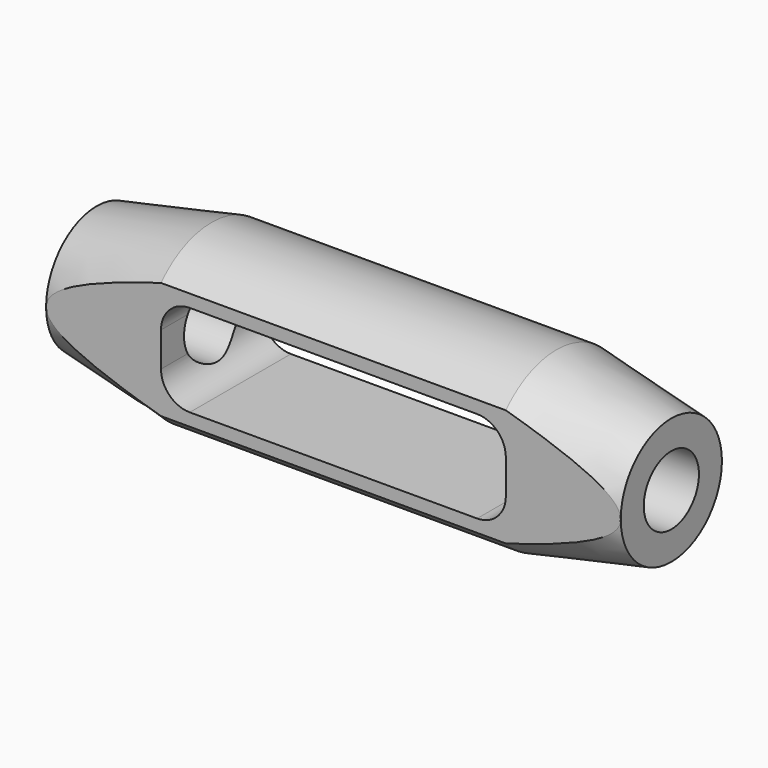
from build123d import *

# Parameters (mm, degrees)
SKETCH029_R      = 6
EXTRUDE026_DEPTH = 150
EXTRUDE025_DEPTH = 30
SKETCH027_W      = 15
SKETCH027_H      = 79.05159
SKETCH027_H_2    = 80
EXTRUDE024_DEPTH = 150


with BuildPart() as extrude026:
    # Sketch029 → Extrude026 (new body, symmetric)
    with BuildSketch(Plane.YZ):
        Circle(SKETCH029_R)
    extrude(amount=EXTRUDE026_DEPTH, both=True)


with BuildPart() as extrude025:
    # Sketch028 → Extrude025 (new body, symmetric)
    with BuildSketch(Plane.XZ):
        with BuildLine():
            Line((30, 3), (30, -3))
            ThreePointArc((25, -8), (28.535534, -6.535534), (30, -3))
            Line((25, -8), (-25, -8))
            ThreePointArc((-30, -3), (-28.535534, -6.535534), (-25, -8))
            Line((-30, -3), (-30, 3))
            ThreePointArc((-25, 8), (-28.535534, 6.535534), (-30, 3))
            Line((-25, 8), (25, 8))
            ThreePointArc((30, 3), (28.535534, 6.535534), (25, 8))
        make_face()
    extrude(amount=EXTRUDE025_DEPTH, both=True)


with BuildPart() as extrude024:
    # Sketch027 → Extrude024 (new body, symmetric)
    with BuildSketch(Plane.YZ):
        with Locations((-18.5, 0.159191)):
            Rectangle(SKETCH027_W, SKETCH027_H)
        with Locations((18.5, -0.315014)):
            Rectangle(SKETCH027_W, SKETCH027_H_2)
    extrude(amount=EXTRUDE024_DEPTH, both=True)


with BuildPart() as obj1:
    # Sketch026 → Revolve004 (revolve)
    with BuildSketch(Plane.XZ):
        Polygon((-50, 0), (-50, 11), (-30, 15), (30, 15), (50, 11), (50, 0), align=None)
    revolve(axis=Axis((-50, 0, 0), (-1, 0, 0)))

    # Cut009: cut Extrude024
    add(extrude024.part, mode=Mode.SUBTRACT)

    # Cut010: cut Extrude025
    add(extrude025.part, mode=Mode.SUBTRACT)

    # Cut011: cut Extrude026
    add(extrude026.part, mode=Mode.SUBTRACT)


with BuildPart() as obj1_1:
    # Cut011 placement: moved
    add(obj1.part.moved(Location((-530, 0, 0))))


solid = obj1_1.part
